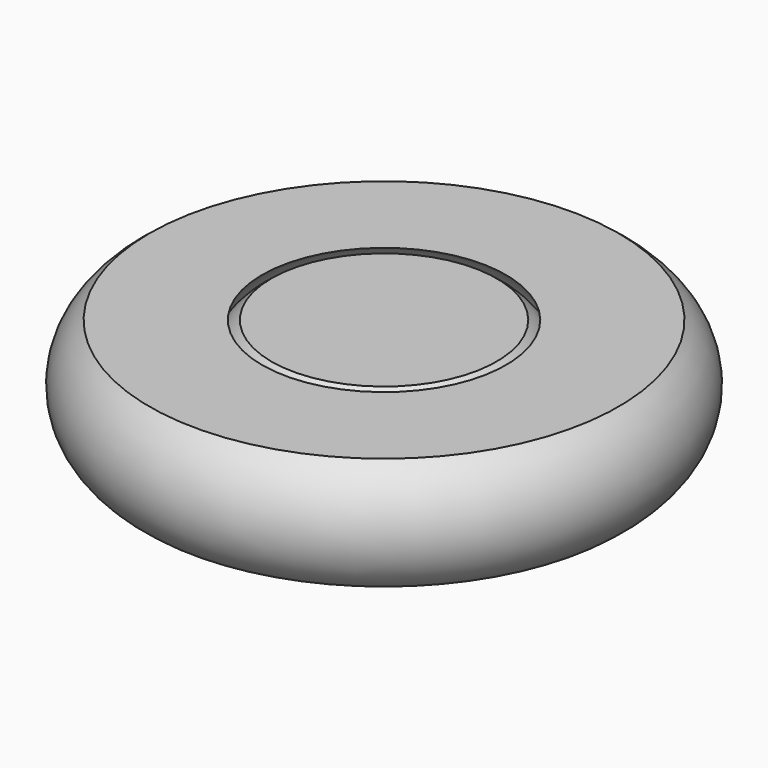
from build123d import *


with BuildPart() as f1:
    # F0 (on Front) → F1 (revolve)
    with BuildSketch(Plane.XZ):
        with BuildLine():
            Line((0, 2.4), (-2.4, 2.4))
            ThreePointArc((-2.4, 2.4), (-3.02468, 1.2), (-2.4, 0))
            Line((-2.4, 0), (0, 0))
            Line((0, 0), (0, 2.4))
        make_face()
        with BuildLine():
            Line((-5, 0), (-2.6, 0))
            ThreePointArc((-2.6, 0), (-3.22468, 1.2), (-2.6, 2.4))
            Line((-2.6, 2.4), (-5, 2.4))
            ThreePointArc((-5, 2.4), (-5.62468, 1.2), (-5, 0))
        make_face()
    revolve(axis=Axis((0, 0, 1.2), (0, 0, 1)))


solid = f1.part
